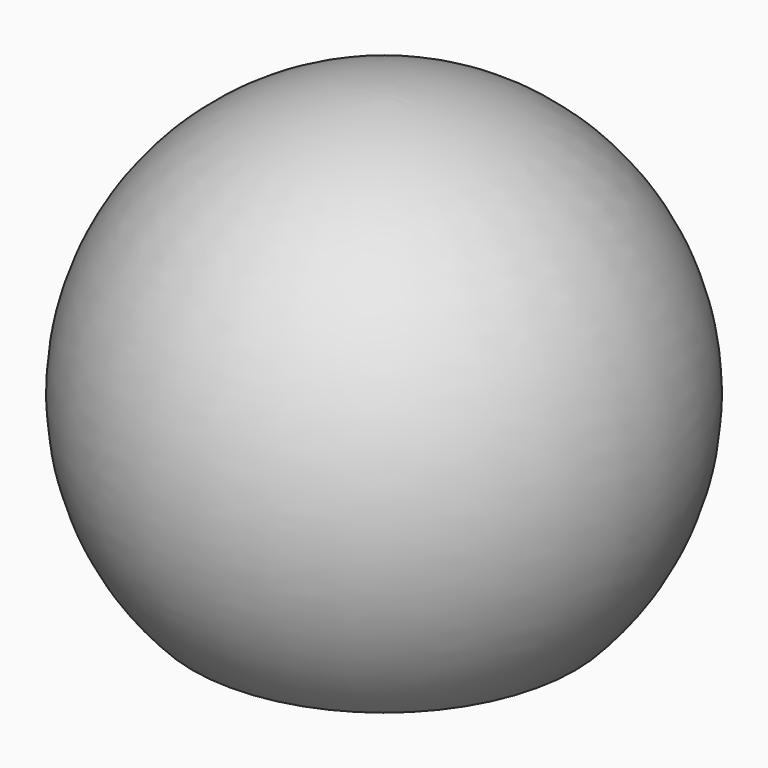
from build123d import *

# Parameters (mm, degrees)
F2_W      = 3.2
F2_H      = 3.2
F3_DEPTH  = 3.9
F4_W      = 1.8
F4_H      = 0.8
F5_DEPTH  = 0.35
F6_W      = 1.8
F6_H      = 0.8
F7_DEPTH  = 0.35
F8_W      = 1.8
F8_H      = 0.8
F9_DEPTH  = 0.35
F10_W     = 1.8
F10_H     = 0.8
F11_DEPTH = 0.35


with BuildPart() as f1:
    # F0 (on Front) → F1 (revolve)
    with BuildSketch(Plane.XZ):
        with BuildLine():
            Line((0, 6.754995), (0, 0))
            Line((0, 0), (2.9, 0))
            ThreePointArc((2.9, 0), (3.675594, 4.332972), (0, 6.754995))
        make_face()
    revolve(axis=Axis((0, 0, 3.377498), (0, 0, -1)))

    # F2 (on face) → F3 (cut)
    with BuildSketch(Plane(origin=(0, 0, 0), x_dir=(1, 0, 0), z_dir=(0, 0, -1))):
        Rectangle(F2_W, F2_H)
    extrude(amount=-F3_DEPTH, mode=Mode.SUBTRACT)

    # F4 (on face) → F5 (join)
    with BuildSketch(Plane(origin=(1.6, 0, 0), x_dir=(0, -1, 0), z_dir=(-1, 0, 0))):
        with Locations((0, 0.4)):
            Rectangle(F4_W, F4_H)
    extrude(amount=F5_DEPTH)

    # F6 (on face) → F7 (join)
    with BuildSketch(Plane.YZ.offset(-1.6)):
        with Locations((0, 0.4)):
            Rectangle(F6_W, F6_H)
    extrude(amount=F7_DEPTH)

    # F8 (on face) → F9 (join)
    with BuildSketch(Plane.XZ.offset(-1.6)):
        with Locations((0, 0.4)):
            Rectangle(F8_W, F8_H)
    extrude(amount=F9_DEPTH)

    # F10 (on face) → F11 (join)
    with BuildSketch(Plane(origin=(0, -1.6, 0), x_dir=(-1, 0, 0), z_dir=(0, 1, 0))):
        with Locations((0, 0.4)):
            Rectangle(F10_W, F10_H)
    extrude(amount=F11_DEPTH)


solid = f1.part
